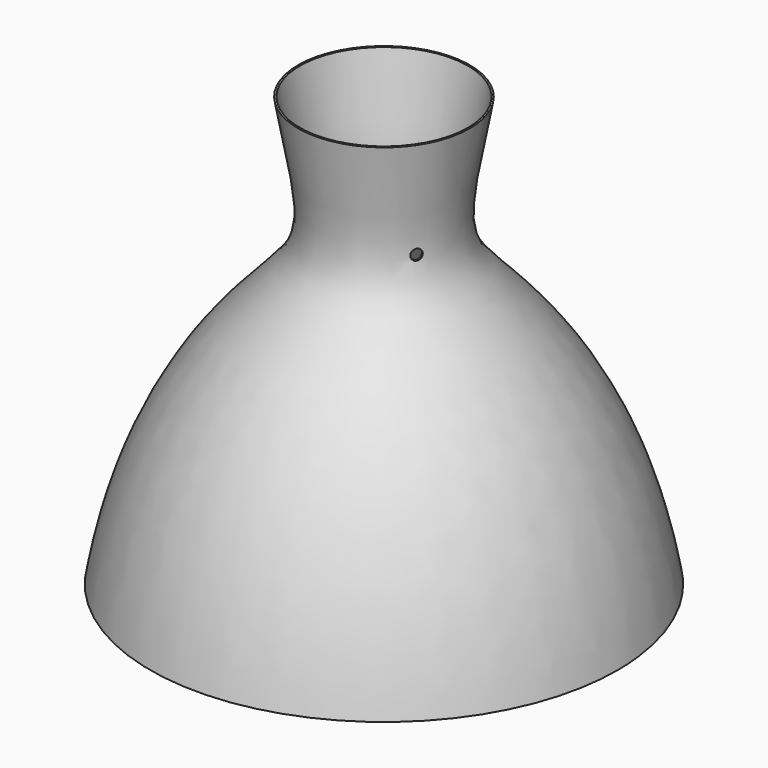
from build123d import *

# Parameters (mm, degrees)
THICKNESS_T        = 1
SKETCH001_R        = 3
POCKET_DEPTH       = 1033.817189
POLARPATTERN_COUNT = 3


with BuildPart() as part:
    # Sketch → Revolution (revolve)
    with BuildSketch(Plane.XZ):
        with BuildLine():
            Line((0, 0), (0, 245))
            Line((0, 245), (48, 245))
            add(Edge.make_bspline(
                [(48, 245), (35, 179.904861), (35, 166.904861), (116.552307, 91.125618), (132.5, 0)],
                knots=[0, 0, 0, 0, 0.5, 1, 1, 1, 1], degree=3))
            Line((132.5, 0), (0, 0))
        make_face()
    revolve(axis=Axis((0, 0, 0), (0, 0, 1)))

    # Thickness
    thickness_openings = [part.faces().sort_by_distance(p)[0] for p in [
        (0, 0, 0),
        (0, 0, 245),
    ]]
    offset(amount=THICKNESS_T, openings=thickness_openings)

    # Sketch001 → Pocket (cut, through all)
    with BuildSketch(Plane.XZ):
        with Locations((0, 185)):
            Circle(SKETCH001_R)
    pocket = extrude(amount=-POCKET_DEPTH, mode=Mode.SUBTRACT)

    # PolarPattern: Pocket ×3 about axis
    polarpattern_axis = Axis((0, 0, 0), (0, 0, 1))
    for i in range(1, POLARPATTERN_COUNT):
        add(pocket.rotate(polarpattern_axis, i * 360 / POLARPATTERN_COUNT), mode=Mode.SUBTRACT)


solid = part.part
